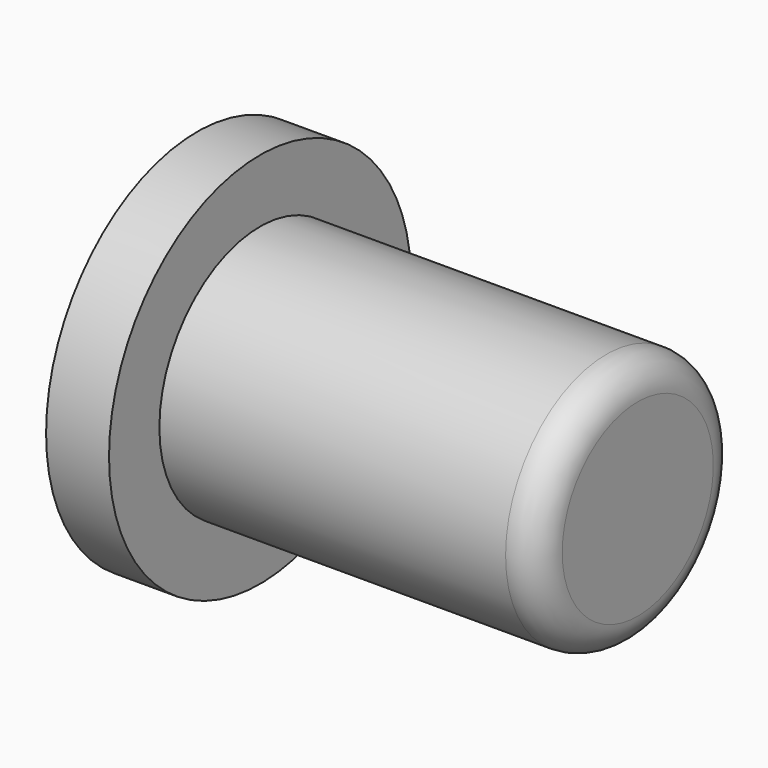
from build123d import *

# Parameters (mm, degrees)
F2_R = 1


with BuildPart() as f1:
    # F0 (on Top) → F1 (revolve)
    with BuildSketch(Plane.XY):
        Polygon((2, 0), (0, 0), (0, -6), (2, -6), (2, -4), (14, -4), (14, 0), align=None)
    revolve(axis=Axis((7.321462, 0, 0), (1, 0, 0)))

    # F2
    f2_edges = [f1.edges().sort_by_distance(p)[0] for p in [
        (14, 4, 0),
    ]]
    fillet(f2_edges, radius=F2_R)


solid = f1.part
